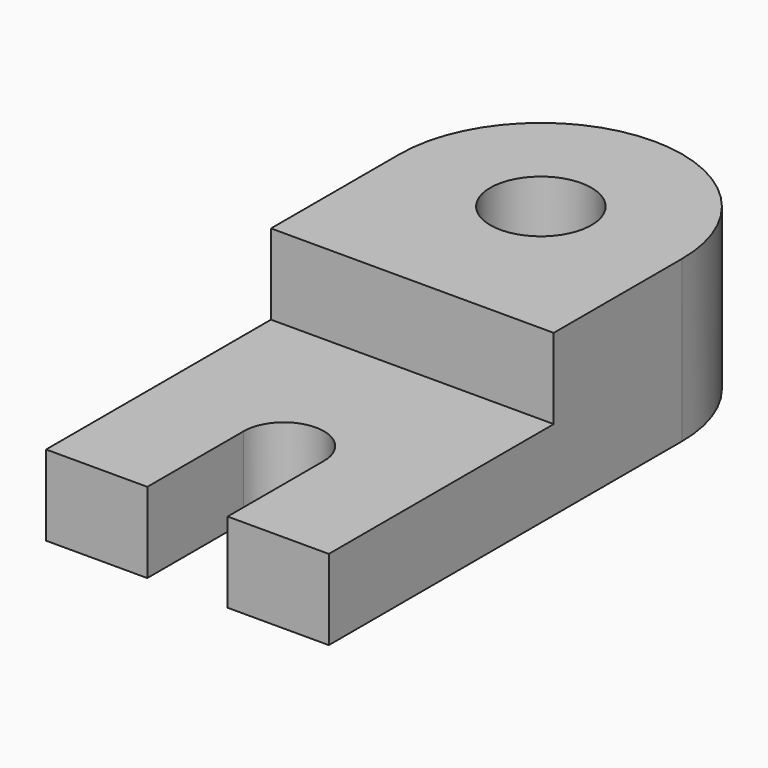
from build123d import *

# Parameters (mm, degrees)
F1_DEPTH = 12.7
F3_DEPTH = 12.7
F5_D     = 16.002


with BuildPart() as f1:
    # F0 (on Top) → F1 (new body)
    with BuildSketch(Plane.XY):
        with BuildLine():
            Line((-5.128147, -40.08238), (-5.128147, 29.76762))
            ThreePointArc((-5.128147, 29.76762), (-27.480147, 52.11962), (-49.832147, 29.76762))
            Line((-49.832147, 29.76762), (-49.832147, -40.08238))
            Line((-49.832147, -40.08238), (-33.830147, -40.08238))
            Line((-33.830147, -40.08238), (-33.830147, -21.03238))
            ThreePointArc((-33.830147, -21.03238), (-27.480147, -14.68238), (-21.130147, -21.03238))
            Line((-21.130147, -21.03238), (-21.130147, -40.08238))
            Line((-21.130147, -40.08238), (-5.128147, -40.08238))
        make_face()
    extrude(amount=F1_DEPTH)

    # F2 (on face) → F3 (join)
    with BuildSketch(Plane.XY.offset(12.7)):
        with BuildLine():
            Line((-49.832147, 29.76762), (-49.832147, 4.36762))
            Line((-49.832147, 4.36762), (-5.128147, 4.36762))
            Line((-5.128147, 4.36762), (-5.128147, 29.76762))
            ThreePointArc((-5.128147, 29.76762), (-27.480147, 52.11962), (-49.832147, 29.76762))
        make_face()
    extrude(amount=F3_DEPTH)

    # F5 (through all)
    with Locations(Plane.XY.offset(25.4)):
        with Locations((-27.480147, 29.76762)):
            Hole(F5_D / 2)


solid = f1.part
